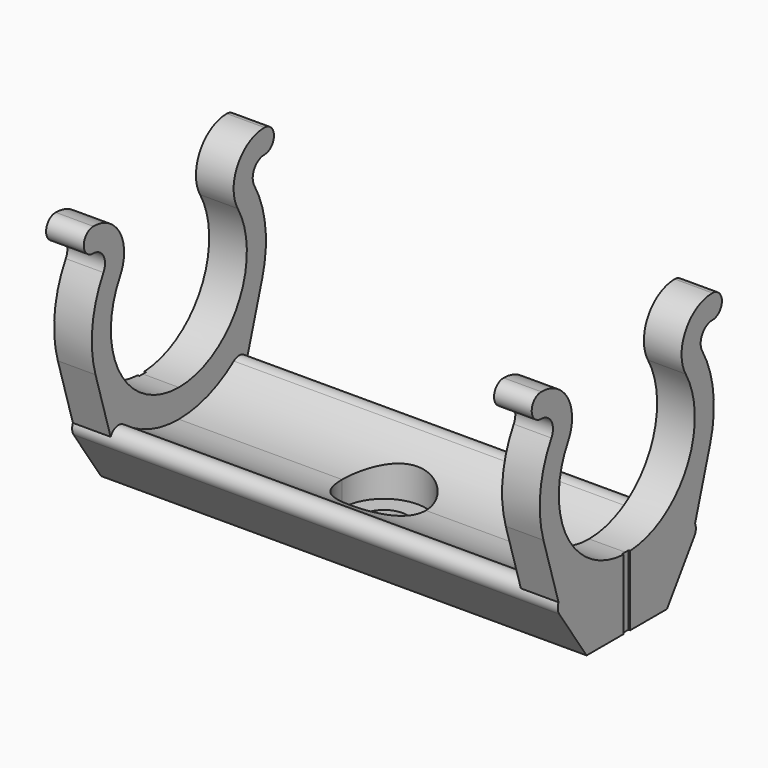
from build123d import *

# Parameters (mm, degrees)
PAD005_DEPTH                  = 29
PAD006_DEPTH                  = 4.5
SKETCH014_R                   = 2.75
POCKET005_DEPTH               = 107.300407
SKETCH015_R                   = 5
POCKET006_DEPTH               = 16.5
PAD005_MIRRORED002_2_DEPTH    = 29
PAD006_MIRRORED002_2_DEPTH    = 4.5
SKETCH014_MIRRORED002_2_R     = 2.75
POCKET005_MIRRORED002_2_DEPTH = 107.300407
SKETCH015_MIRRORED002_2_R     = 5
POCKET006_MIRRORED002_2_DEPTH = 16.5
SKETCH023_W                   = 1
SKETCH023_H                   = 10
POCKET011_DEPTH               = 0.2


with BuildPart() as part:
    # Sketch012 → Pad005 (new body)
    with BuildSketch(Plane.YZ):
        with BuildLine():
            ThreePointArc((0, -13.5), (4.330629, -12.786542), (8.203522, -10.721578))
            ThreePointArc((10.083563, -12.5), (9.900722, -10.810344), (8.203522, -10.721578))
            Line((6, -18.5), (10.083563, -12.5))
            Line((0, -18.5), (6, -18.5))
            Line((0, -13.5), (0, -18.5))
        make_face()
    pad005 = extrude(amount=PAD005_DEPTH)

    # Sketch013 → Pad006 (join)
    with BuildSketch(Plane.YZ.offset(29)):
        with BuildLine():
            ThreePointArc((0, -10.15), (8.790158, -5.075), (8.790158, 5.075))
            ThreePointArc((12.773875, 11.975), (8.790158, 9.675), (8.790158, 5.075))
            ThreePointArc((12.773875, 9.125), (14.198875, 10.55), (12.773875, 11.975))
            ThreePointArc((12.773875, 9.125), (11.25833, 8.25), (11.25833, 6.5))
            ThreePointArc((12.442941, -3.764734), (12.914285, 1.490384), (11.25833, 6.5))
            Line((12.442941, -3.764734), (9.8, -12.5))
            Line((9.8, -12.5), (0, -14.15))
            Line((0, -10.15), (0, -14.15))
        make_face()
    pad006 = extrude(amount=-PAD006_DEPTH)

    # Sketch014 → Pocket005 (cut, through all)
    with BuildSketch(Plane.XY):
        Circle(SKETCH014_R)
    pocket005 = extrude(amount=-POCKET005_DEPTH, mode=Mode.SUBTRACT)

    # Sketch015 → Pocket006 (cut)
    with BuildSketch(Plane.XY):
        Circle(SKETCH015_R)
    pocket006 = extrude(amount=-POCKET006_DEPTH, mode=Mode.SUBTRACT)

    # Sketch012 Mirrored002 2 → Pad005 Mirrored002 2 (add)
    with BuildSketch(Plane(origin=(0, 0, 0), x_dir=(0, -1, 0), z_dir=(-1, 0, 0))):
        with BuildLine():
            ThreePointArc((0, -13.5), (4.330629, -12.786542), (8.203522, -10.721578))
            ThreePointArc((10.083563, -12.5), (9.900722, -10.810344), (8.203522, -10.721578))
            Line((6, -18.5), (10.083563, -12.5))
            Line((0, -18.5), (6, -18.5))
            Line((0, -13.5), (0, -18.5))
        make_face()
    pad005_mirrored002_2 = extrude(amount=-PAD005_MIRRORED002_2_DEPTH)

    # Sketch013 Mirrored002 2 → Pad006 Mirrored002 2 (add)
    with BuildSketch(Plane(origin=(29, 0, 0), x_dir=(0, -1, 0), z_dir=(-1, 0, 0))):
        with BuildLine():
            ThreePointArc((0, -10.15), (8.790158, -5.075), (8.790158, 5.075))
            ThreePointArc((12.773875, 11.975), (8.790158, 9.675), (8.790158, 5.075))
            ThreePointArc((12.773875, 9.125), (14.198875, 10.55), (12.773875, 11.975))
            ThreePointArc((12.773875, 9.125), (11.25833, 8.25), (11.25833, 6.5))
            ThreePointArc((12.442941, -3.764734), (12.914285, 1.490384), (11.25833, 6.5))
            Line((12.442941, -3.764734), (9.8, -12.5))
            Line((9.8, -12.5), (0, -14.15))
            Line((0, -10.15), (0, -14.15))
        make_face()
    pad006_mirrored002_2 = extrude(amount=PAD006_MIRRORED002_2_DEPTH)

    # Sketch014 Mirrored002 2 → Pocket005 Mirrored002 2 (cut, through all)
    with BuildSketch(Plane(origin=(0, 0, 0), x_dir=(1, 0, 0), z_dir=(0, 0, -1))):
        Circle(SKETCH014_MIRRORED002_2_R)
    pocket005_mirrored002_2 = extrude(amount=POCKET005_MIRRORED002_2_DEPTH, mode=Mode.SUBTRACT)

    # Sketch015 Mirrored002 2 → Pocket006 Mirrored002 2 (cut)
    with BuildSketch(Plane(origin=(0, 0, 0), x_dir=(1, 0, 0), z_dir=(0, 0, -1))):
        Circle(SKETCH015_MIRRORED002_2_R)
    pocket006_mirrored002_2 = extrude(amount=POCKET006_MIRRORED002_2_DEPTH, mode=Mode.SUBTRACT)

    # Mirrored003: Pad005, Pad006, Pocket005, Pocket006, Pad005 Mirrored002 2, Pad006 Mirrored002 2, Pocket005 Mirrored002 2, Pocket006 Mirrored002 2 across YZ
    add(pad005.mirror(Plane.YZ))
    add(pad006.mirror(Plane.YZ))
    add(pocket005.mirror(Plane.YZ), mode=Mode.SUBTRACT)
    add(pocket006.mirror(Plane.YZ), mode=Mode.SUBTRACT)
    add(pad005_mirrored002_2.mirror(Plane.YZ))
    add(pad006_mirrored002_2.mirror(Plane.YZ))
    add(pocket005_mirrored002_2.mirror(Plane.YZ), mode=Mode.SUBTRACT)
    add(pocket006_mirrored002_2.mirror(Plane.YZ), mode=Mode.SUBTRACT)

    # Sketch023 → Pocket011 (cut)
    with BuildSketch(Plane.YZ.offset(29)):
        with Locations((0, -15)):
            Rectangle(SKETCH023_W, SKETCH023_H)
    pocket011 = extrude(amount=-POCKET011_DEPTH, mode=Mode.SUBTRACT)

    # Mirrored006: Pocket011 across YZ
    add(pocket011.mirror(Plane.YZ), mode=Mode.SUBTRACT)


solid = part.part
